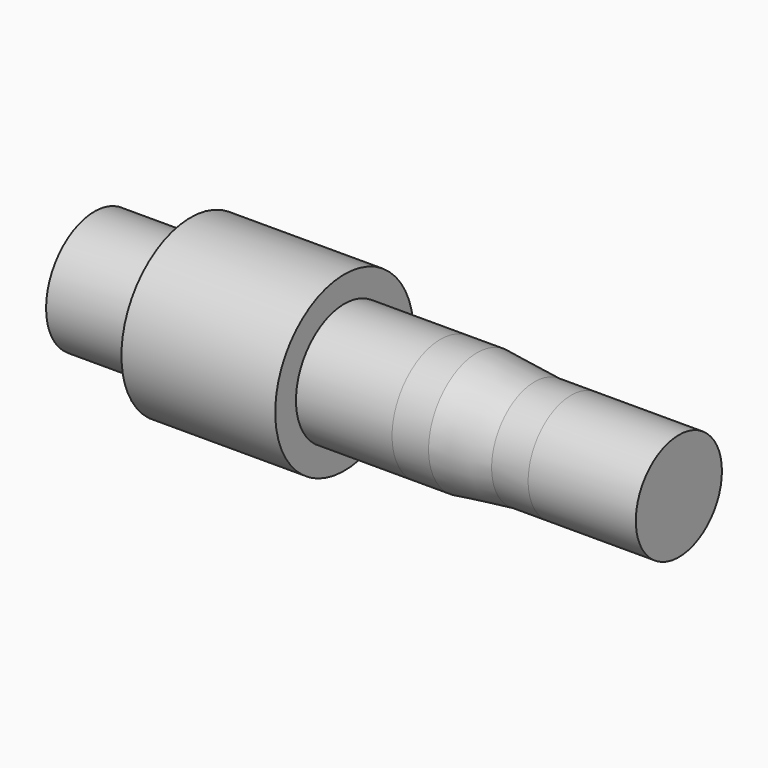
from build123d import *

# Parameters (mm, degrees)
F0_R      = 225
F1_DEPTH  = 200
F2_R      = 157.5
F3_DEPTH  = 250
F4_R      = 157.5
F5_DEPTH  = 250
F6_R      = 157.5
F7_DEPTH  = 95
F8_R      = 157.5
F10_R     = 140
F12_R     = 140
F13_DEPTH = 95
F14_T     = -27
F15_T     = -27
F16_R     = 140
F17_DEPTH = 280


with BuildPart() as f1:
    # F0 (on Right) → F1 (new body, symmetric)
    with BuildSketch(Plane.YZ):
        Circle(F0_R)
    extrude(amount=F1_DEPTH, both=True)

    # F2 (on face) → F3 (join)
    with BuildSketch(Plane.YZ.offset(200)):
        Circle(F2_R)
    extrude(amount=F3_DEPTH)

    # F4 (on face) → F5 (join)
    with BuildSketch(Plane(origin=(-200, 0, 0), x_dir=(0, -1, 0), z_dir=(-1, 0, 0))):
        Circle(F4_R)
    extrude(amount=F5_DEPTH)

    # F14
    f14_openings = [f1.faces().sort_by_distance(p)[0] for p in [
        (-450, 0, 0),
        (450, 0, 0),
    ]]
    offset(amount=F14_T, openings=f14_openings, kind=Kind.INTERSECTION)


with BuildPart() as f7:
    # F6 (on face) → F7 (new body)
    with BuildSketch(Plane.YZ.offset(450)):
        Circle(F6_R)
    extrude(amount=F7_DEPTH)

    # F8 (on face) → F11 section 0
    with BuildSketch(Plane.YZ.offset(545)):
        Circle(F8_R)
    # F10 (on offset) → F11 section 1
    with BuildSketch(Plane.YZ.offset(695)):
        Circle(F10_R)
    loft()

    # F12 (on face) → F13 (join)
    with BuildSketch(Plane.YZ.offset(695)):
        Circle(F12_R)
    extrude(amount=F13_DEPTH)

    # F15
    f15_openings = [f7.faces().sort_by_distance(p)[0] for p in [
        (790, 0, 0),
        (450, 0, 0),
    ]]
    offset(amount=F15_T, openings=f15_openings, kind=Kind.INTERSECTION)


with BuildPart() as f17:
    # F16 (on face) → F17 (new body)
    with BuildSketch(Plane.YZ.offset(790)):
        Circle(F16_R)
    extrude(amount=F17_DEPTH)


solid = Compound([f1.part, f7.part, f17.part])
